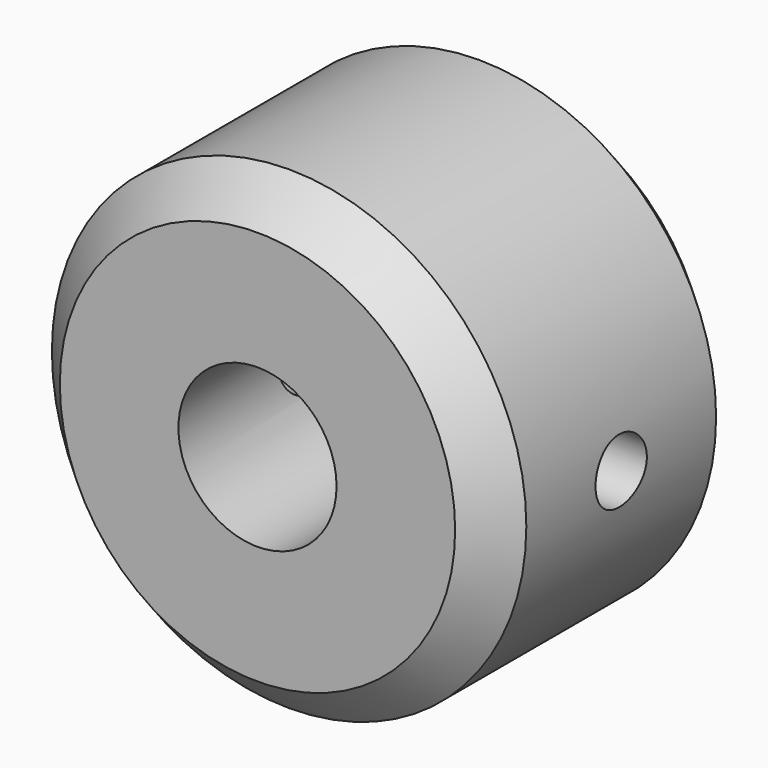
from build123d import *

# Parameters (mm, degrees)
F0_R          = 76.2
F1_DEPTH      = 50.8
F1_DEPTH_BACK = 50.8
F2_R          = 25.4
F3_DEPTH      = 101.601
F4_SIZE       = 12.7
F5_R          = 10.297763
F6_DEPTH      = 152.4


with BuildPart() as f1:
    # F0 (on Front) → F1 (new body, two sides)
    with BuildSketch(Plane.XZ) as f1_sk:
        Circle(F0_R)
    extrude(amount=F1_DEPTH)
    extrude(f1_sk.sketch, amount=-F1_DEPTH_BACK)

    # F2 (on face) → F3 (cut, through all)
    with BuildSketch(Plane.XZ.offset(50.8)):
        Circle(F2_R)
    extrude(amount=-F3_DEPTH, mode=Mode.SUBTRACT)

    # F4
    f4_edges = [f1.edges().sort_by_distance(p)[0] for p in [
        (-76.2, -50.8, 0),
        (-76.2, 50.8, 0),
    ]]
    chamfer(f4_edges, length=F4_SIZE)

    # F5 (on Right) → F6 (cut, symmetric)
    with BuildSketch(Plane.YZ):
        Circle(F5_R)
    extrude(amount=F6_DEPTH, both=True, mode=Mode.SUBTRACT)


solid = f1.part
